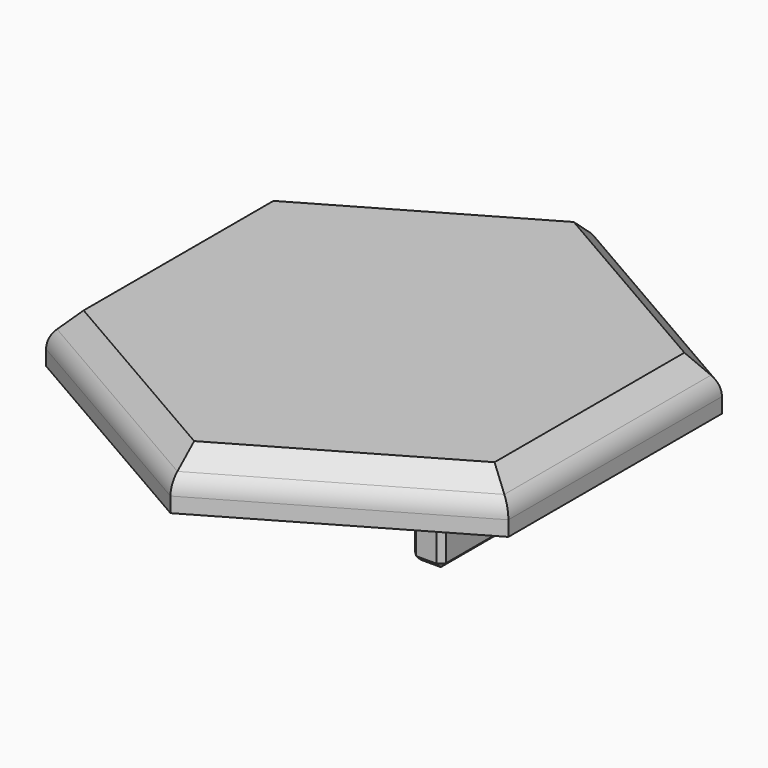
from build123d import *

# Parameters (mm, degrees)
PAD_DEPTH       = 2
CHAMFER_SIZE    = 1
FILLET_R        = 1
SKETCH002_W     = 1.2
SKETCH002_H     = 3
PAD001_DEPTH    = 4.5
CHAMFER001_SIZE = 0.2


with BuildPart() as part:
    # Sketch → Pad (new body)
    with BuildSketch(Plane.XY):
        Polygon((17.999992, 0), (17.999992, 10.3923), (8.999996, 15.58845), (0, 10.3923), (0, 0), (8.999996, -5.19615), align=None)
    extrude(amount=PAD_DEPTH)

    # Chamfer
    chamfer_edges = [part.edges().sort_by_distance(p)[0] for p in [
        (13.499994, -2.598075, 2),
        (4.499998, -2.598075, 2),
        (17.999992, 5.19615, 2),
        (13.499994, 12.990375, 2),
        (0, 5.19615, 2),
        (4.499998, 12.990375, 2),
    ]]
    chamfer(chamfer_edges, length=CHAMFER_SIZE)

    # Fillet
    fillet_edges = [part.edges().sort_by_distance(p)[0] for p in [
        (13.499994, 12.990375, 1),
        (13.499994, -2.598075, 1),
        (17.999992, 5.19615, 1),
        (4.499998, -2.598075, 1),
        (0, 5.19615, 1),
        (4.499998, 12.990375, 1),
    ]]
    fillet(fillet_edges, radius=FILLET_R)

    # Sketch002 → Pad001 (join)
    with BuildSketch(Plane(origin=(0, 0, 0.01), x_dir=(1, 0, 0), z_dir=(0, 0, -1))):
        with Locations((6.149996, -5.19615)):
            Rectangle(SKETCH002_W, SKETCH002_H)
        with Locations((11.849996, -5.19615)):
            Rectangle(SKETCH002_W, SKETCH002_H)
    extrude(amount=PAD001_DEPTH)

    # Chamfer001
    chamfer001_edges = [part.edges().sort_by_distance(p)[0] for p in [
        (11.849996, 3.69615, -4.49),
        (11.249996, 5.19615, -4.49),
        (11.849996, 6.69615, -4.49),
        (12.449996, 5.19615, -4.49),
        (11.249996, 3.69615, -2.245),
        (11.249996, 6.69615, -2.245),
        (12.449996, 3.69615, -2.245),
        (12.449996, 6.69615, -2.245),
        (5.549996, 5.19615, -4.49),
        (6.149996, 3.69615, -4.49),
        (6.749996, 5.19615, -4.49),
        (6.149996, 6.69615, -4.49),
        (5.549996, 3.69615, -2.245),
        (6.749996, 3.69615, -2.245),
        (5.549996, 6.69615, -2.245),
        (6.749996, 6.69615, -2.245),
    ]]
    chamfer(chamfer001_edges, length=CHAMFER001_SIZE)


solid = part.part
